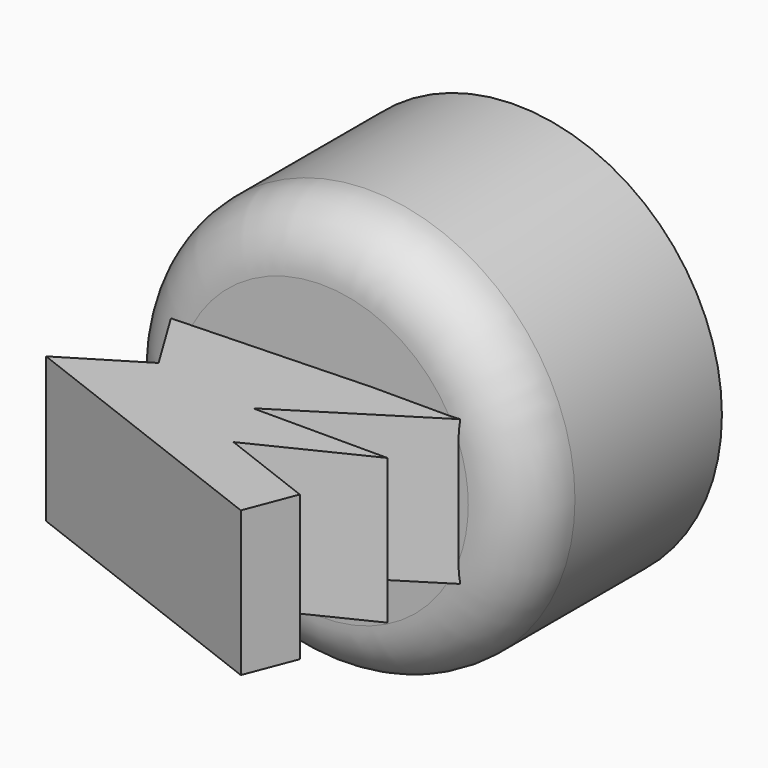
from build123d import *

# Parameters (mm, degrees)
F0_R     = 36.052537
F1_DEPTH = 42.5522
F2_R     = 10.384305
F4_DEPTH = 12.7


with BuildPart() as f1:
    # F0 (on Front) → F1 (new body)
    with BuildSketch(Plane.XZ):
        Circle(F0_R)
        Circle(F0_R)
    extrude(amount=F1_DEPTH)

    # F2
    f2_edges = [f1.edges().sort_by_distance(p)[0] for p in [
        (-36.052537, -42.5522, 0),
    ]]
    fillet(f2_edges, radius=F2_R)

    # F3 (on Top) → F4 (join, symmetric)
    with BuildSketch(Plane.XY):
        Polygon((24.906132, -41.96053), (-25.40835, -43.80627), (-18.461386, -55.194348), (-31.700424, -63.270436), (17.599434, -82.260892), (20.955874, -73.547461), (4.182442, -67.086284), (23.552079, -57.608064), (0, -57.608064), align=None)
    extrude(amount=F4_DEPTH, both=True)


solid = f1.part
